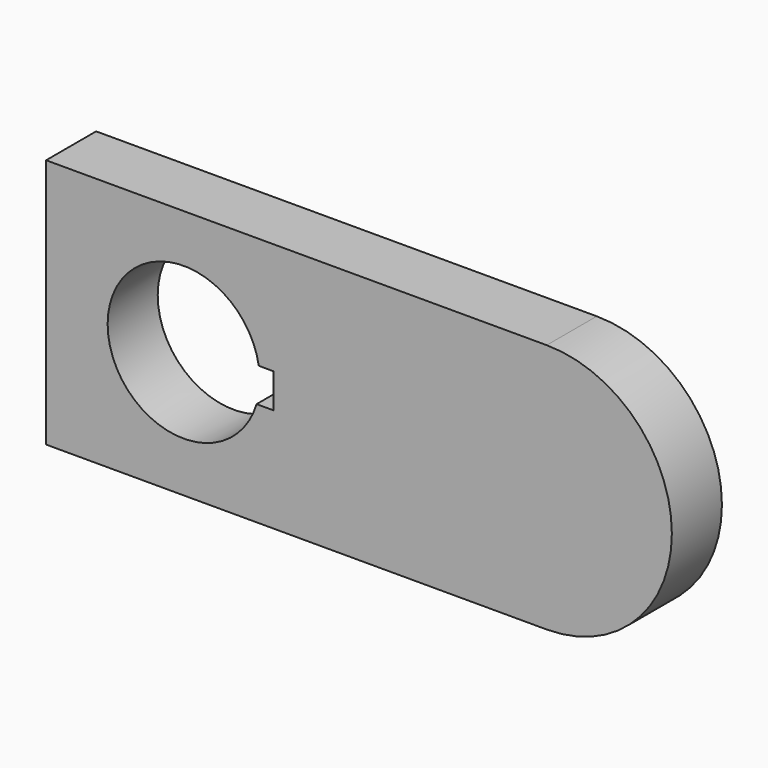
from build123d import *

# Parameters (mm, degrees)
F1_DEPTH = 254


with BuildPart() as f1:
    # F0 (on Front) → F1 (new body)
    with BuildSketch(Plane.XZ):
        with BuildLine():
            Line((-2561.742272, -7.558169), (-529.742272, -7.558169))
            ThreePointArc((-529.742272, -7.558169), (-21.742272, 500.441831), (-529.742272, 1008.441831))
            Line((-529.742272, 1008.441831), (-2561.742272, 1008.441831))
            Line((-2561.742272, 1008.441831), (-2561.742272, -7.558169))
        make_face()
        with BuildLine():
            ThreePointArc((-1707.338481, 414.867422), (-2311.184925, 523.963491), (-1698.325438, 554.553181))
            Line((-1698.325438, 554.553181), (-1638.906291, 554.553181))
            Line((-1638.906291, 554.553181), (-1638.906291, 414.867422))
            Line((-1638.906291, 414.867422), (-1707.338481, 414.867422))
        make_face(mode=Mode.SUBTRACT)
    extrude(amount=F1_DEPTH)


solid = f1.part
